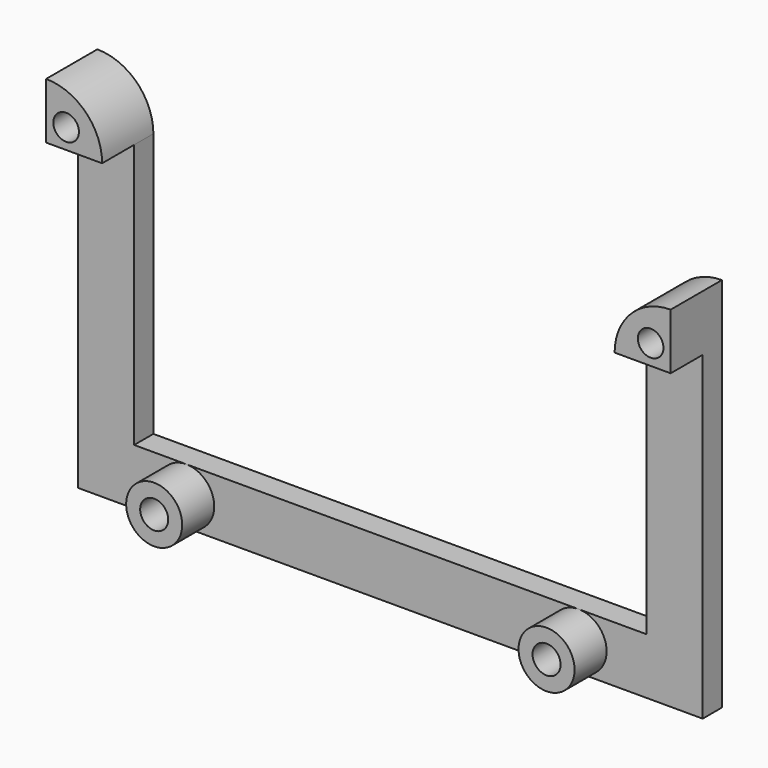
from build123d import *

# Parameters (mm, degrees)
CYLINDER032_R     = 1.75
CYLINDER032_DEPTH = 8
CYLINDER035_R     = 1.75
CYLINDER035_DEPTH = 8
CYLINDER038_R     = 1.6
CYLINDER038_DEPTH = 8
CYLINDER039_R     = 1.6
CYLINDER039_DEPTH = 8
CYLINDER037_W     = 7
CYLINDER037_H     = 8
CYLINDER037_ANGLE = 90
BOX025_W          = 78
BOX025_H          = 3
BOX025_DEPTH      = 7
BOX026_W          = 40
BOX026_H          = 3
BOX026_DEPTH      = 7
CYLINDER034_R     = 3.5
CYLINDER034_DEPTH = 8
CYLINDER031_R     = 3.5
CYLINDER031_DEPTH = 8
BOX027_W          = 40
BOX027_H          = 3
BOX027_DEPTH      = 7
CYLINDER036_W     = 7
CYLINDER036_H     = 8
CYLINDER036_ANGLE = 90


with BuildPart() as cuts:
    # Cylinder032 → Cylinder032 (new body)
    with BuildSketch(Plane(origin=(13.5, -2, 61.5), x_dir=(1, 0, 0), z_dir=(0, -1, 0))):
        Circle(CYLINDER032_R)
    extrude(amount=CYLINDER032_DEPTH)


with BuildPart() as cuts001:
    # Cylinder035 → Cylinder035 (new body)
    with BuildSketch(Plane(origin=(62.5, -2, 61.5), x_dir=(1, 0, 0), z_dir=(0, -1, 0))):
        Circle(CYLINDER035_R)
    extrude(amount=CYLINDER035_DEPTH)


with BuildPart() as m3screw:
    # Cylinder038 → Cylinder038 (new body)
    with BuildSketch(Plane(origin=(75.5, -2, 100.5), x_dir=(1, 0, 0), z_dir=(0, -1, 0))):
        Circle(CYLINDER038_R)
    extrude(amount=CYLINDER038_DEPTH)


with BuildPart() as c4oldcuts:
    # Cylinder039 → Cylinder039 (new body)
    with BuildSketch(Plane(origin=(2.5, -2, 100.5), x_dir=(1, 0, 0), z_dir=(0, -1, 0))):
        Circle(CYLINDER039_R)
    extrude(amount=CYLINDER039_DEPTH)

    # Fusion016: union cuts, cuts001, m3Screw
    add(cuts.part)
    add(cuts001.part)
    add(m3screw.part)


with BuildPart() as cylinder037:
    # Cylinder037 → Cylinder037 (revolve)
    with BuildSketch(Plane(origin=(0, -2, 98), x_dir=(1, 0, 0), z_dir=(0, 0, -1))):
        with Locations((3.5, 4)):
            Rectangle(CYLINDER037_W, CYLINDER037_H)
    revolve(axis=Axis((0, -2, 98), (0, -1, 0)), revolution_arc=CYLINDER037_ANGLE)


with BuildPart() as cube020:
    # Box025 → Box025 (new body)
    with BuildSketch(Plane(origin=(0, -5, 58), x_dir=(1, 0, 0), z_dir=(0, 0, 1))):
        with Locations((39, 1.5)):
            Rectangle(BOX025_W, BOX025_H)
    extrude(amount=BOX025_DEPTH)


with BuildPart() as cube021:
    # Box026 → Box026 (new body)
    with BuildSketch(Plane(origin=(7, -5, 58), x_dir=(0, 0, 1), z_dir=(-1, 0, 0))):
        with Locations((20, 1.5)):
            Rectangle(BOX026_W, BOX026_H)
    extrude(amount=BOX026_DEPTH)


with BuildPart() as cylinder034:
    # Cylinder034 → Cylinder034 (new body)
    with BuildSketch(Plane(origin=(62.5, -2, 61.5), x_dir=(1, 0, 0), z_dir=(0, -1, 0))):
        Circle(CYLINDER034_R)
    extrude(amount=CYLINDER034_DEPTH)


with BuildPart() as cylinder031:
    # Cylinder031 → Cylinder031 (new body)
    with BuildSketch(Plane(origin=(13.5, -2, 61.5), x_dir=(1, 0, 0), z_dir=(0, -1, 0))):
        Circle(CYLINDER031_R)
    extrude(amount=CYLINDER031_DEPTH)


with BuildPart() as fusion014:
    # Box027 → Box027 (new body)
    with BuildSketch(Plane(origin=(78, -5, 58), x_dir=(0, 0, 1), z_dir=(-1, 0, 0))):
        with Locations((20, 1.5)):
            Rectangle(BOX027_W, BOX027_H)
    extrude(amount=BOX027_DEPTH)

    # Fusion014: union Cube020, Cube021, Cylinder034, Cylinder031
    add(cube020.part)
    add(cube021.part)
    add(cylinder034.part)
    add(cylinder031.part)


with BuildPart() as c4hold001:
    # Cylinder036 → Cylinder036 (revolve)
    with BuildSketch(Plane(origin=(78, -2, 98), x_dir=(0, 0, 1), z_dir=(1, 0, 0))):
        with Locations((3.5, 4)):
            Rectangle(CYLINDER036_W, CYLINDER036_H)
    revolve(axis=Axis((78, -2, 98), (0, -1, 0)), revolution_arc=CYLINDER036_ANGLE)

    # Fusion015: union Cylinder037, Fusion014
    add(cylinder037.part)
    add(fusion014.part)

    # Cut024: cut c4oldCuts
    add(c4oldcuts.part, mode=Mode.SUBTRACT)


solid = c4hold001.part
